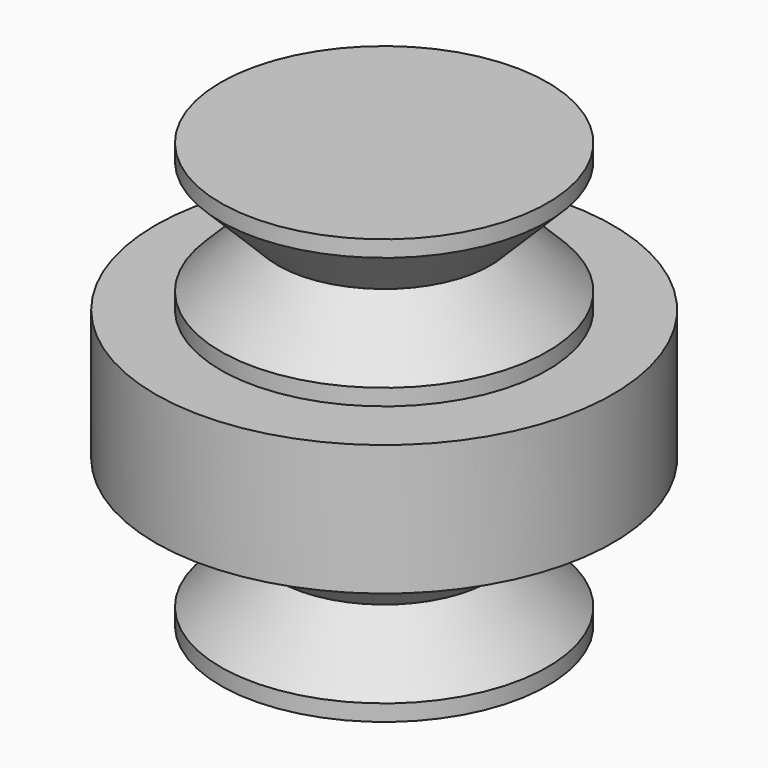
from build123d import *

# Parameters (mm, degrees)
F0_W = 7.9375
F0_H = 0.79375


with BuildPart() as f1:
    # F0 (on Front) → F1 (revolve)
    with BuildSketch(Plane.XZ):
        Polygon((-7.9375, 9.525), (-5.159375, 6.746875), (0, 6.746875), (0, 9.525), align=None)
        Polygon((0, -3.175), (-7.9375, -3.175), (-7.9375, -3.96875), (-5.159375, -3.96875), (0, -3.96875), align=None)
        Polygon((0, -6.746875), (-5.159375, -6.746875), (-7.9375, -9.525), (0, -9.525), align=None)
        Polygon((-7.9375, 3.96875), (-7.9375, 3.175), (0, 3.175), (0, 3.96875), (-5.159375, 3.96875), align=None)
        Polygon((-5.159375, 6.746875), (-7.9375, 3.96875), (-5.159375, 3.96875), (0, 3.96875), (0, 6.746875), align=None)
        with Locations((-3.96875, 9.921875)):
            Rectangle(F0_W, F0_H)
        Polygon((-7.9375, 3.175), (-11.1125, 3.175), (-11.1125, -3.175), (-7.9375, -3.175), (0, -3.175), (0, 3.175), align=None)
        with Locations((-3.96875, -9.921875)):
            Rectangle(F0_W, F0_H)
        Polygon((-5.159375, -3.96875), (-7.9375, -3.96875), (-5.159375, -6.746875), (0, -6.746875), (0, -3.96875), align=None)
    revolve(axis=Axis((0, 0, 0), (0, 0, 1)))


solid = f1.part
